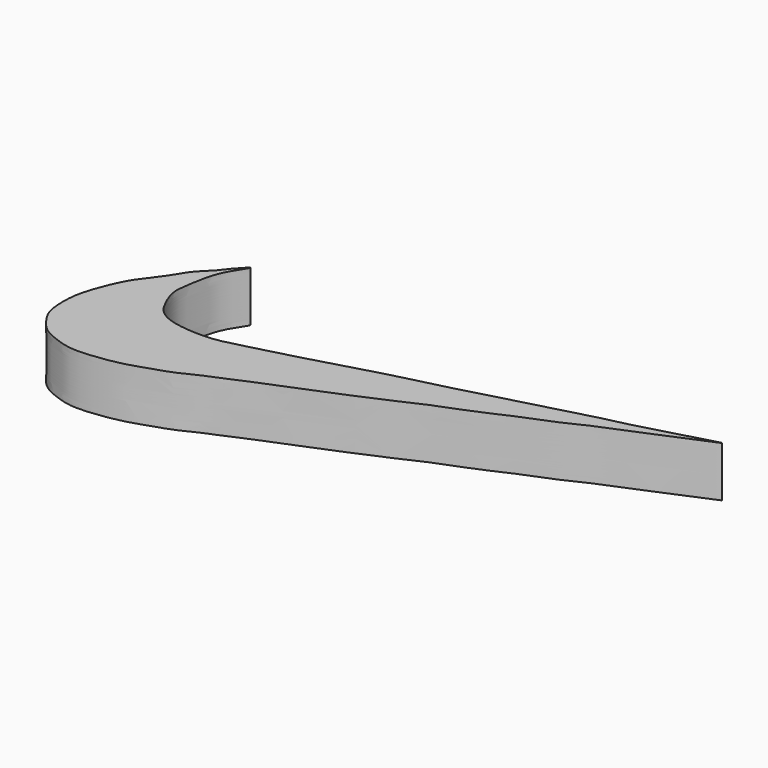
from build123d import *

# Parameters (mm, degrees)
F1_DEPTH = 7


with BuildPart() as f1:
    # F0 (on Top) → F1 (new body)
    with BuildSketch(Plane.XY):
        with BuildLine():
            add(Edge.make_bspline(
                [(-71.0486471653, 19.9134610593), (-70.7426940641, 19.2875869875), (-70.1183485177, 18.2046495682), (-67.8348077203, 16.7094966213), (-62.5764482765, 16.3398703024), (-59.8519274626, 16.9741166277), (-57.0001083225, 17.7090769702), (-54.3899831999, 18.4315739124), (-51.6528269636, 19.1112105418), (-48.7325485268, 19.9740044836), (-45.5121701926, 20.8507248949), (-41.6616633199, 21.9955019225), (-37.8399058695, 22.893541454), (-34.3825887563, 23.7460104644), (-30.3188792686, 24.9434959712), (-25.5780309406, 26.0840438608), (-21.8188032793, 27.1975976035), (-17.5991700876, 28.3210574467), (-13.7655541127, 29.1084720506), (-9.0867757739, 30.5347952624), (-6.6803658358, 31.0918347289), (-2.2849246974, 32.4116412813), (-5.9068865383, 30.9987694443), (-7.6039902968, 30.2045973966), (-10.6974501146, 28.9258440669), (-13.4118920495, 27.8110261963), (-17.4385670368, 26.1845655977), (-20.4327566349, 24.6008280922), (-25.1910170554, 22.8500452712), (-28.9967135154, 20.941083278), (-33.6134551167, 19.3463543449), (-37.901925817, 17.2565768428), (-41.3780109441, 15.8034256996), (-45.1699035307, 14.174669205), (-48.9536471457, 12.726335124), (-52.1911231413, 11.395922606), (-55.2158524721, 10.0025385661), (-57.597178075, 9.1431237582), (-60.2619279275, 7.6931091406), (-62.5091905717, 7.0888402565), (-65.4675772194, 5.9246691954), (-69.4686903861, 5.3048915617), (-72.5685665482, 5.146948883), (-74.958158761, 5.9339416303), (-77.096381424, 6.8634825286), (-78.3529338801, 8.35019058), (-79.6135178109, 10.0929974656), (-80.024176276, 12.6402478567), (-79.8579357418, 15.8258458832), (-78.7027904086, 18.9818425829), (-77.4360850087, 21.9497354445), (-74.9201173068, 24.8438570262), (-73.5387884443, 27.5619855868), (-71.6848274798, 29.0710273513), (-70.7348197211, 30.5443324533), (-68.3623351419, 32.9907374711), (-70.3772322955, 30.1223391633), (-71.310170813, 27.8564058411), (-71.8639355629, 24.5854815413), (-72.1563734837, 22.419659049), (-71.4111181683, 20.6549511821), (-71.0486471653, 19.9134610593)],
                knots=[0, 0, 0, 0, 0.0129773524, 0.0282254303, 0.0497826439, 0.0659429453, 0.0819162053, 0.0975655792, 0.1134315211, 0.1299100489, 0.1472489819, 0.1663064641, 0.1850879569, 0.2028864106, 0.2224433348, 0.2433675381, 0.2622757794, 0.281816363, 0.3009625217, 0.3214233354, 0.3380963491, 0.3536968613, 0.3675470055, 0.3820580713, 0.3988579578, 0.4154937741, 0.4349397827, 0.4527019304, 0.4737816587, 0.4935519876, 0.5144646402, 0.5351620423, 0.553559165, 0.5727628197, 0.5918838224, 0.6097186397, 0.6268434865, 0.6420598699, 0.6583317563, 0.6727687207, 0.6895843906, 0.7087912326, 0.7254464396, 0.7403484699, 0.7546237726, 0.7676979884, 0.7813693407, 0.7964071029, 0.8133180305, 0.8306239535, 0.8476719919, 0.8661970118, 0.8827726326, 0.8968776063, 0.910616041, 0.92400699, 0.9374012062, 0.9536106434, 0.9705442491, 0.9846253759, 1, 1, 1, 1], degree=3))
        make_face()
    extrude(amount=F1_DEPTH)


solid = f1.part
